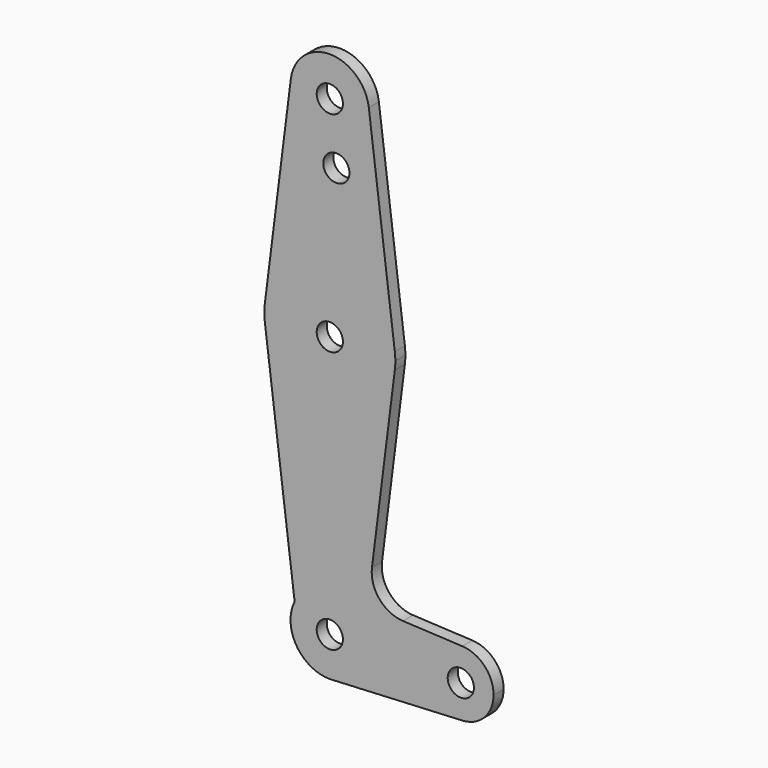
from build123d import *

# Parameters (mm, degrees)
F0_R     = 3.175
F1_DEPTH = 3.048


with BuildPart() as f1:
    # F0 (on Front) → F1 (new body)
    with BuildSketch(Plane.XZ):
        with BuildLine():
            ThreePointArc((-9.450293, 115.490625), (-0.596483, 104.793695), (9.525, 114.3))
            ThreePointArc((9.525, 114.3), (9.506305, 114.896483), (9.450293, 115.490625))
            ThreePointArc((9.450293, 115.490625), (0, 123.825), (-9.450293, 115.490625))
        make_face()
        with Locations((0, 114.3)):
            Circle(F0_R, mode=Mode.SUBTRACT)
        with BuildLine():
            ThreePointArc((9.450293, 115.490625), (9.506305, 114.896483), (9.525, 114.3))
            ThreePointArc((9.525, 114.3), (-0.596483, 104.793695), (-9.450293, 115.490625))
            Line((-9.450293, 115.490625), (-15.750488, 65.484375))
            ThreePointArc((-15.750488, 65.484375), (0, 79.375), (15.750488, 65.484375))
            Line((15.750488, 65.484375), (9.450293, 115.490625))
        make_face()
        with Locations((1.5875, 100.0252)):
            Circle(F0_R, mode=Mode.SUBTRACT)
        with BuildLine():
            ThreePointArc((15.875, 63.5), (15.843841, 64.494139), (15.750488, 65.484375))
            ThreePointArc((15.750488, 65.484375), (0, 79.375), (-15.750488, 65.484375))
            ThreePointArc((-15.750488, 65.484375), (-15.875, 63.5), (-15.750488, 61.515625))
            ThreePointArc((-15.750488, 61.515625), (0, 47.625), (15.750488, 61.515625))
            ThreePointArc((15.750488, 61.515625), (15.843841, 62.505861), (15.875, 63.5))
        make_face()
        with Locations((0, 63.5)):
            Circle(F0_R, mode=Mode.SUBTRACT)
        with BuildLine():
            ThreePointArc((15.750488, 61.515625), (0, 47.625), (-15.750488, 61.515625))
            Line((-15.750488, 61.515625), (-8.533387, 4.231658))
            ThreePointArc((-8.533387, 4.231658), (2.173145, 9.273784), (9.525, 0))
            ThreePointArc((9.525, 0), (7.061162, -6.392622), (0.944292, -9.478077))
            Line((0.944292, -9.478077), (32.14394, -7.927718))
            ThreePointArc((32.14394, -7.927718), (23.8125, 0), (32.14394, 7.927718))
            Line((32.14394, 7.927718), (17.708296, 8.645048))
            ThreePointArc((17.708296, 8.645048), (12.011522, 11.476517), (10.215022, 17.579225))
            Line((10.215022, 17.579225), (15.750488, 61.515625))
        make_face()
        with BuildLine():
            ThreePointArc((9.525, 0), (2.173145, 9.273784), (-8.533387, 4.231658))
            ThreePointArc((-8.533387, 4.231658), (-8.094201, -5.02091), (0, -9.525))
            Line((0, -9.525), (0.944292, -9.478077))
            ThreePointArc((0.944292, -9.478077), (7.061162, -6.392622), (9.525, 0))
        make_face()
        Circle(F0_R, mode=Mode.SUBTRACT)
        with BuildLine():
            Line((0.944292, -9.478077), (0, -9.525))
            ThreePointArc((0, -9.525), (0.472729, -9.513262), (0.944292, -9.478077))
        make_face()
        with BuildLine():
            ThreePointArc((39.6875, 0), (37.500253, 5.471609), (32.14394, 7.927718))
            ThreePointArc((32.14394, 7.927718), (23.8125, 0), (32.14394, -7.927718))
            ThreePointArc((32.14394, -7.927718), (37.500253, -5.471609), (39.6875, 0))
        make_face()
        with Locations((31.75, 0)):
            Circle(F0_R, mode=Mode.SUBTRACT)
    extrude(amount=-F1_DEPTH)


solid = f1.part
